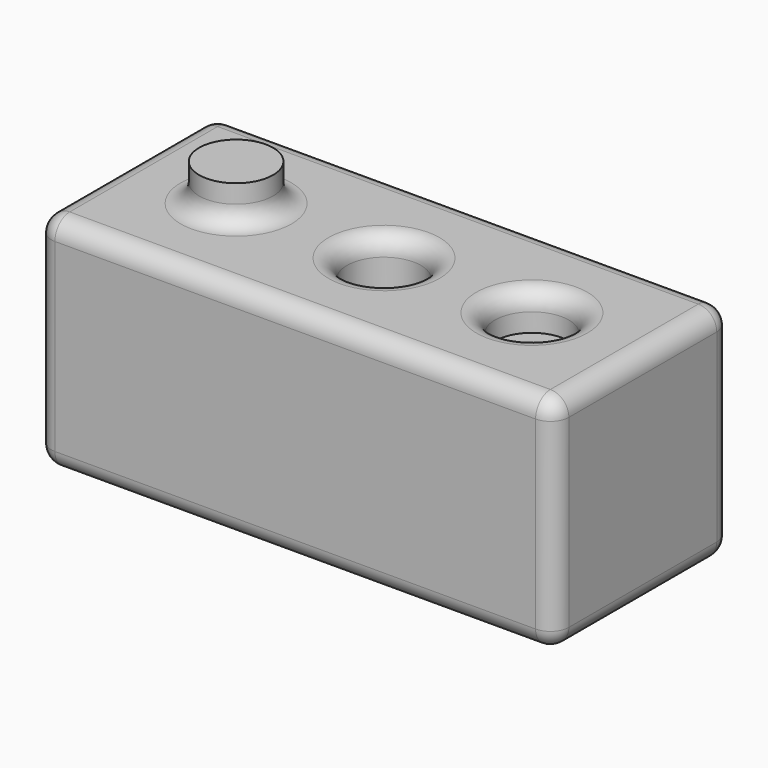
from build123d import *

# Parameters (mm, degrees)
F0_W     = 140
F0_H     = 60
F1_DEPTH = 60
F2_R     = 10
F5_DEPTH = 10
F3_R     = 10
F6_DEPTH = 10
F4_R     = 10
F7_DEPTH = 132.8
F8_R     = 5


with BuildPart() as f1:
    # F0 (on Top) → F1 (new body)
    with BuildSketch(Plane.XY):
        Rectangle(F0_W, F0_H)
    extrude(amount=F1_DEPTH)

    # F2 (on face) → F5 (join)
    with BuildSketch(Plane.XY.offset(60)):
        with Locations((-40, 0)):
            Circle(F2_R)
    extrude(amount=F5_DEPTH)

    # F3 (on face) → F6 (cut)
    with BuildSketch(Plane.XY.offset(60)):
        with Locations((40, 0)):
            Circle(F3_R)
    extrude(amount=-F6_DEPTH, mode=Mode.SUBTRACT)

    # F4 (on face) → F7 (cut)
    with BuildSketch(Plane.XY.offset(60)):
        Circle(F4_R)
    extrude(amount=-F7_DEPTH, mode=Mode.SUBTRACT)

    # F8
    f8_edges = [f1.edges().sort_by_distance(p)[0] for p in [
        (-70, 0, 60),
        (0, 30, 60),
        (0, -30, 60),
        (70, 0, 60),
        (-50, 0, 60),
        (-10, 0, 60),
        (30, 0, 60),
        (0, 30, 0),
        (-70, 30, 30),
        (70, 30, 30),
        (-70, -30, 30),
        (-70, 0, 0),
        (0, -30, 0),
        (-10, 0, 0),
        (70, 0, 0),
        (70, -30, 30),
    ]]
    fillet(f8_edges, radius=F8_R)


solid = f1.part
